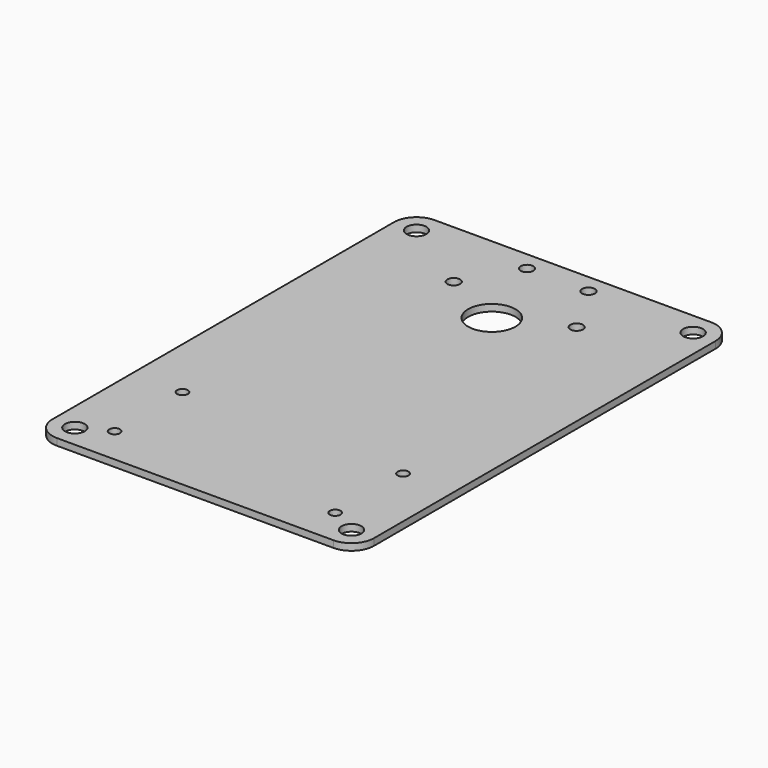
from build123d import *

# Parameters (mm, degrees)
F0_W     = 81.09111
F0_H     = 119.011938
F0_R     = 2.5
F0_R_2   = 1.35255
F0_R_3   = 1.6
F0_R_4   = 5.969
F1_DEPTH = 1.70942
F2_R     = 5.674995


with BuildPart() as f1:
    # F0 (on Top) → F1 (new body)
    with BuildSketch(Plane.XY):
        Rectangle(F0_W, F0_H)
        with Locations((-34.870555, -53.830969)):
            Circle(F0_R, mode=Mode.SUBTRACT)
        with Locations((-27.80665, -50.137809)):
            Circle(F0_R_2, mode=Mode.SUBTRACT)
        with Locations((-27.80665, -28.749815)):
            Circle(F0_R_2, mode=Mode.SUBTRACT)
        with Locations((27.80665, -50.137809)):
            Circle(F0_R_2, mode=Mode.SUBTRACT)
        with Locations((34.870555, -53.830969)):
            Circle(F0_R, mode=Mode.SUBTRACT)
        with Locations((27.80665, -28.749815)):
            Circle(F0_R_2, mode=Mode.SUBTRACT)
        with Locations((-34.870555, 53.830969)):
            Circle(F0_R, mode=Mode.SUBTRACT)
        with Locations((-15.494, 41.344969)):
            Circle(F0_R_3, mode=Mode.SUBTRACT)
        with Locations((-7.747, 54.763167)):
            Circle(F0_R_3, mode=Mode.SUBTRACT)
        with Locations((0, 33.978969)):
            Circle(F0_R_4, mode=Mode.SUBTRACT)
        with Locations((15.494, 41.344969)):
            Circle(F0_R_3, mode=Mode.SUBTRACT)
        with Locations((7.747, 54.763167)):
            Circle(F0_R_3, mode=Mode.SUBTRACT)
        with Locations((34.870555, 53.830969)):
            Circle(F0_R, mode=Mode.SUBTRACT)
    extrude(amount=F1_DEPTH)

    # F2
    f2_edges = [f1.edges().sort_by_distance(p)[0] for p in [
        (40.545555, 59.505969, 0.85471),
        (40.545555, -59.505969, 0.85471),
        (-40.545555, -59.505969, 0.85471),
        (-40.545555, 59.505969, 0.85471),
    ]]
    fillet(f2_edges, radius=F2_R)


solid = f1.part
